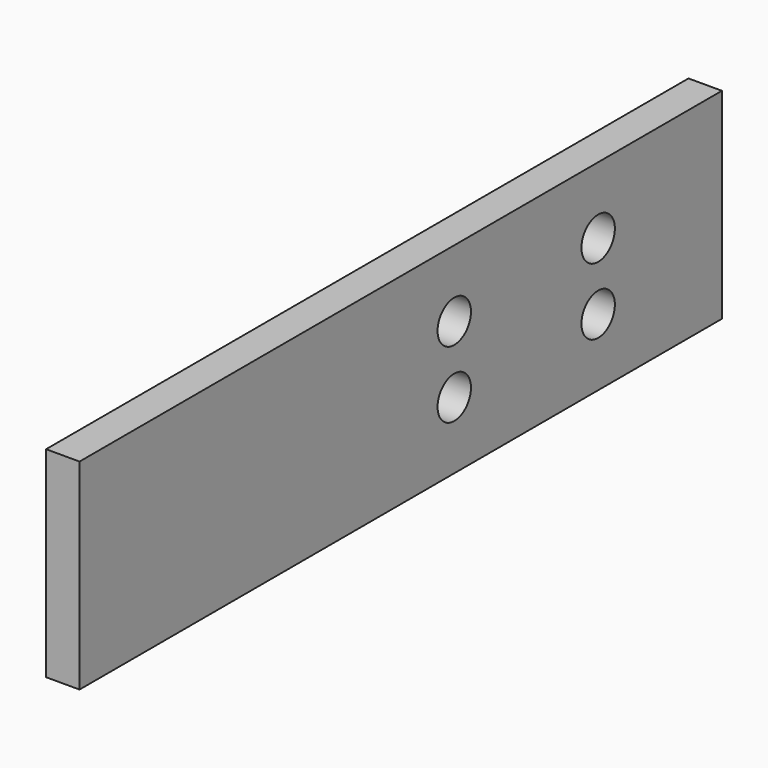
from build123d import *

# Parameters (mm, degrees)
F0_W     = 3.175
F0_H     = 19.05
F1_DEPTH = 38.1
F2_R     = 1.9812
F3_DEPTH = 3.176
F4_R     = 1.9812
F5_DEPTH = 3.176


with BuildPart() as f1:
    # F0 (on Front) → F1 (new body, symmetric)
    with BuildSketch(Plane.XZ):
        Rectangle(F0_W, F0_H)
    extrude(amount=F1_DEPTH, both=True)

    # F2 (on face) → F3 (cut, through all)
    with BuildSketch(Plane.YZ.offset(1.5875)):
        with Locations((23.4188, 3.175)):
            Circle(F2_R)
        with Locations((23.4188, -3.175)):
            Circle(F2_R)
    extrude(amount=-F3_DEPTH, mode=Mode.SUBTRACT)

    # F4 (on face) → F5 (cut, through all)
    with BuildSketch(Plane.YZ.offset(1.5875)):
        with Locations((6.35, 3.175)):
            Circle(F4_R)
        with Locations((6.35, -3.175)):
            Circle(F4_R)
    extrude(amount=-F5_DEPTH, mode=Mode.SUBTRACT)


solid = f1.part
